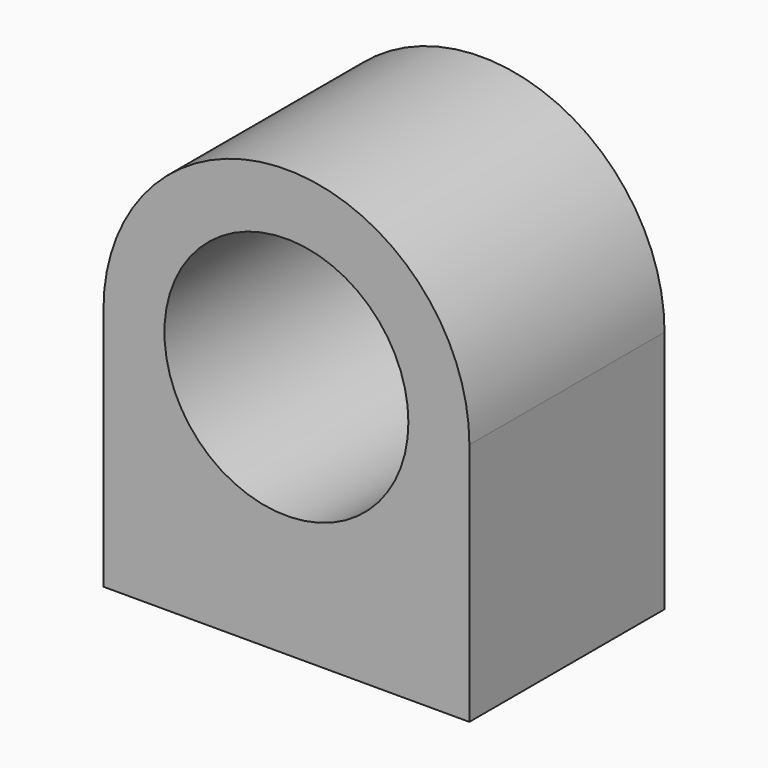
from build123d import *

# Parameters (mm, degrees)
F0_R     = 12.7
F1_DEPTH = 25.4
F3_D     = 6.35
F3_DEPTH = 12.7
F3_TIP   = 1.9077324654


with BuildPart() as f1:
    # F0 (on Front) → F1 (new body)
    with BuildSketch(Plane.XZ):
        with BuildLine():
            ThreePointArc((15.2072963325, 0), (-3.8427036675, 19.05), (-22.8927036675, 0))
            Line((-22.8927036675, 0), (-22.8927036675, -25.4))
            Line((-22.8927036675, -25.4), (15.2072963325, -25.4))
            Line((15.2072963325, -25.4), (15.2072963325, 0))
        make_face()
        with Locations((-3.8427036675, 0)):
            Circle(F0_R, mode=Mode.SUBTRACT)
    extrude(amount=F1_DEPTH)

    # F3
    with Locations(Plane(origin=(0, 0, -25.4), x_dir=(1, 0, 0), z_dir=(0, 0, -1))):
        with Locations((-16.5427036675, 12.7), (8.8572963325, 12.7)):
            Hole(F3_D / 2, depth=F3_DEPTH)
            with Locations((0, 0, -(F3_DEPTH + F3_TIP / 2))):  # 118° drill point
                Cone(0, F3_D / 2, F3_TIP, mode=Mode.SUBTRACT)


solid = f1.part
